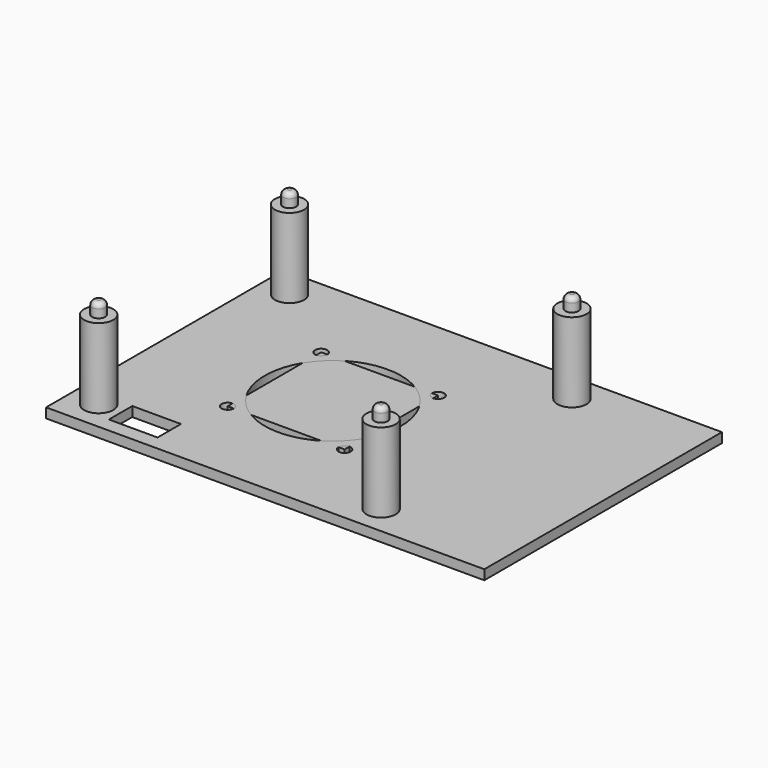
from build123d import *

# Parameters (mm, degrees)
BOX001_W          = 24
BOX001_H          = 24
BOX001_DEPTH      = 2
CYLINDER012_R     = 1.25
CYLINDER012_DEPTH = 2
CYLINDER013_R     = 1.25
CYLINDER013_DEPTH = 2
CYLINDER014_R     = 1.25
CYLINDER014_DEPTH = 2
CYLINDER015_R     = 1.25
CYLINDER015_DEPTH = 2
BOX002_W          = 10
BOX002_H          = 6
BOX002_DEPTH      = 2
CYLINDER016_R     = 14
CYLINDER016_DEPTH = 2
CYLINDER002_R     = 1
CYLINDER002_DEPTH = 5
CYLINDER003_R     = 3
CYLINDER003_DEPTH = 16.3
CYLINDER004_R     = 1
CYLINDER004_DEPTH = 5
CYLINDER005_R     = 3
CYLINDER005_DEPTH = 16.3
CYLINDER006_R     = 1
CYLINDER006_DEPTH = 5
CYLINDER007_R     = 3
CYLINDER007_DEPTH = 16.3
CYLINDER001_R     = 1
CYLINDER001_DEPTH = 5
CYLINDER_R        = 3
CYLINDER_DEPTH    = 16.3
CYLINDER008_R     = 1.35
CYLINDER008_DEPTH = 21
FILLET_R          = 1
CYLINDER009_R     = 1.35
CYLINDER009_DEPTH = 21
FILLET001_R       = 1
CYLINDER010_R     = 1.35
CYLINDER010_DEPTH = 21
FILLET002_R       = 1
CYLINDER011_R     = 1.35
CYLINDER011_DEPTH = 21
FILLET003_R       = 1
BOX_W             = 90
BOX_H             = 61
BOX_DEPTH         = 2


with BuildPart() as cube:
    # Box001 → Box001 (new body)
    with BuildSketch(Plane(origin=(25, 21, 0), x_dir=(1, 0, 0), z_dir=(0, 0, 1))):
        with Locations((12, 12)):
            Rectangle(BOX001_W, BOX001_H)
    extrude(amount=BOX001_DEPTH)


with BuildPart() as cylinder012:
    # Cylinder012 → Cylinder012 (new body)
    with BuildSketch(Plane(origin=(25, 21, 0), x_dir=(1, 0, 0), z_dir=(0, 0, 1))):
        Circle(CYLINDER012_R)
    extrude(amount=CYLINDER012_DEPTH)


with BuildPart() as cylinder013:
    # Cylinder013 → Cylinder013 (new body)
    with BuildSketch(Plane(origin=(25, 45, 0), x_dir=(1, 0, 0), z_dir=(0, 0, 1))):
        Circle(CYLINDER013_R)
    extrude(amount=CYLINDER013_DEPTH)


with BuildPart() as cylinder014:
    # Cylinder014 → Cylinder014 (new body)
    with BuildSketch(Plane(origin=(49, 45, 0), x_dir=(1, 0, 0), z_dir=(0, 0, 1))):
        Circle(CYLINDER014_R)
    extrude(amount=CYLINDER014_DEPTH)


with BuildPart() as cylinder015:
    # Cylinder015 → Cylinder015 (new body)
    with BuildSketch(Plane(origin=(49, 21, 0), x_dir=(1, 0, 0), z_dir=(0, 0, 1))):
        Circle(CYLINDER015_R)
    extrude(amount=CYLINDER015_DEPTH)


with BuildPart() as box002:
    # Box002 → Box002 (new body)
    with BuildSketch(Plane(origin=(13, 5.5, 0), x_dir=(1, 0, 0), z_dir=(0, 0, 1))):
        with Locations((5, 3)):
            Rectangle(BOX002_W, BOX002_H)
    extrude(amount=BOX002_DEPTH)


with BuildPart() as fanhole:
    # Cylinder016 → Cylinder016 (new body)
    with BuildSketch(Plane(origin=(37, 33, 0), x_dir=(1, 0, 0), z_dir=(0, 0, 1))):
        Circle(CYLINDER016_R)
    extrude(amount=CYLINDER016_DEPTH)


with BuildPart() as inside_cyl001:
    # Cylinder002 → Cylinder002 (new body)
    with BuildSketch(Plane(origin=(-8.5, 8.5, 0), x_dir=(1, 0, 0), z_dir=(0, 0, 1))):
        Circle(CYLINDER002_R)
    extrude(amount=CYLINDER002_DEPTH)


with BuildPart() as cut001:
    # Cylinder003 → Cylinder003 (new body)
    with BuildSketch(Plane(origin=(-8.5, 8.5, 0), x_dir=(1, 0, 0), z_dir=(0, 0, 1))):
        Circle(CYLINDER003_R)
    extrude(amount=CYLINDER003_DEPTH)

    # Cut001: cut Inside Cyl001
    add(inside_cyl001.part, mode=Mode.SUBTRACT)


with BuildPart() as cut001_1:
    # Cut001 placement: moved
    add(cut001.part.moved(Location((17, 49, 2))))


with BuildPart() as inside_cyl002:
    # Cylinder004 → Cylinder004 (new body)
    with BuildSketch(Plane(origin=(-8.5, 8.5, 0), x_dir=(1, 0, 0), z_dir=(0, 0, 1))):
        Circle(CYLINDER004_R)
    extrude(amount=CYLINDER004_DEPTH)


with BuildPart() as cut002:
    # Cylinder005 → Cylinder005 (new body)
    with BuildSketch(Plane(origin=(-8.5, 8.5, 0), x_dir=(1, 0, 0), z_dir=(0, 0, 1))):
        Circle(CYLINDER005_R)
    extrude(amount=CYLINDER005_DEPTH)

    # Cut002: cut Inside Cyl002
    add(inside_cyl002.part, mode=Mode.SUBTRACT)


with BuildPart() as cut002_1:
    # Cut002 placement: moved
    add(cut002.part.moved(Location((75, 0, 2))))


with BuildPart() as inside_cyl003:
    # Cylinder006 → Cylinder006 (new body)
    with BuildSketch(Plane(origin=(-8.5, 8.5, 0), x_dir=(1, 0, 0), z_dir=(0, 0, 1))):
        Circle(CYLINDER006_R)
    extrude(amount=CYLINDER006_DEPTH)


with BuildPart() as cut003:
    # Cylinder007 → Cylinder007 (new body)
    with BuildSketch(Plane(origin=(-8.5, 8.5, 0), x_dir=(1, 0, 0), z_dir=(0, 0, 1))):
        Circle(CYLINDER007_R)
    extrude(amount=CYLINDER007_DEPTH)

    # Cut003: cut Inside Cyl003
    add(inside_cyl003.part, mode=Mode.SUBTRACT)


with BuildPart() as cut003_1:
    # Cut003 placement: moved
    add(cut003.part.moved(Location((75, 49, 2))))


with BuildPart() as inside_cyl:
    # Cylinder001 → Cylinder001 (new body)
    with BuildSketch(Plane(origin=(-8.5, 8.5, 0), x_dir=(1, 0, 0), z_dir=(0, 0, 1))):
        Circle(CYLINDER001_R)
    extrude(amount=CYLINDER001_DEPTH)


with BuildPart() as cut:
    # Cylinder → Cylinder (new body)
    with BuildSketch(Plane(origin=(-8.5, 8.5, 0), x_dir=(1, 0, 0), z_dir=(0, 0, 1))):
        Circle(CYLINDER_R)
    extrude(amount=CYLINDER_DEPTH)

    # Cut: cut Inside Cyl
    add(inside_cyl.part, mode=Mode.SUBTRACT)


with BuildPart() as cut_1:
    # Cut placement: moved
    add(cut.part.moved(Location((17, 0, 2))))


with BuildPart() as fillet_body:
    # Cylinder008 → Cylinder008 (new body)
    with BuildSketch(Plane(origin=(8.5, 8.5, 0), x_dir=(1, 0, 0), z_dir=(0, 0, 1))):
        Circle(CYLINDER008_R)
    extrude(amount=CYLINDER008_DEPTH)

    # Fillet
    fillet_edges = [fillet_body.edges().sort_by_distance(p)[0] for p in [
        (7.15, 8.5, 21),
    ]]
    fillet(fillet_edges, radius=FILLET_R)


with BuildPart() as fillet001:
    # Cylinder009 → Cylinder009 (new body)
    with BuildSketch(Plane(origin=(8.5, 8.5, 0), x_dir=(1, 0, 0), z_dir=(0, 0, 1))):
        Circle(CYLINDER009_R)
    extrude(amount=CYLINDER009_DEPTH)

    # Fillet001
    fillet001_edges = [fillet001.edges().sort_by_distance(p)[0] for p in [
        (7.15, 8.5, 21),
    ]]
    fillet(fillet001_edges, radius=FILLET001_R)


with BuildPart() as fillet001_1:
    # Fillet001 placement: moved
    add(fillet001.part.moved(Location((0, 49, 0))))


with BuildPart() as fillet002:
    # Cylinder010 → Cylinder010 (new body)
    with BuildSketch(Plane(origin=(8.5, 8.5, 0), x_dir=(1, 0, 0), z_dir=(0, 0, 1))):
        Circle(CYLINDER010_R)
    extrude(amount=CYLINDER010_DEPTH)

    # Fillet002
    fillet002_edges = [fillet002.edges().sort_by_distance(p)[0] for p in [
        (7.15, 8.5, 21),
    ]]
    fillet(fillet002_edges, radius=FILLET002_R)


with BuildPart() as fillet002_1:
    # Fillet002 placement: moved
    add(fillet002.part.moved(Location((58, 0, 0))))


with BuildPart() as fillet003:
    # Cylinder011 → Cylinder011 (new body)
    with BuildSketch(Plane(origin=(8.5, 8.5, 0), x_dir=(1, 0, 0), z_dir=(0, 0, 1))):
        Circle(CYLINDER011_R)
    extrude(amount=CYLINDER011_DEPTH)

    # Fillet003
    fillet003_edges = [fillet003.edges().sort_by_distance(p)[0] for p in [
        (7.15, 8.5, 21),
    ]]
    fillet(fillet003_edges, radius=FILLET003_R)


with BuildPart() as fillet003_1:
    # Fillet003 placement: moved
    add(fillet003.part.moved(Location((58, 49, 0))))


with BuildPart() as rpi_base_top:
    # Box → Box (new body)
    with BuildSketch(Plane(origin=(2.5, 2.5, 0), x_dir=(1, 0, 0), z_dir=(0, 0, 1))):
        with Locations((45, 30.5)):
            Rectangle(BOX_W, BOX_H)
    extrude(amount=BOX_DEPTH)

    # Fusion: union Cut001, Cut002, Cut003, Cut, Fillet body, Fillet001, Fillet002, Fillet003
    add(cut001_1.part)
    add(cut002_1.part)
    add(cut003_1.part)
    add(cut_1.part)
    add(fillet_body.part)
    add(fillet001_1.part)
    add(fillet002_1.part)
    add(fillet003_1.part)

    # Cut004: cut FanHole
    add(fanhole.part, mode=Mode.SUBTRACT)

    # Cut005: cut Box002
    add(box002.part, mode=Mode.SUBTRACT)

    # Cut006: cut Cylinder015
    add(cylinder015.part, mode=Mode.SUBTRACT)

    # Cut007: cut Cylinder014
    add(cylinder014.part, mode=Mode.SUBTRACT)

    # Cut008: cut Cylinder013
    add(cylinder013.part, mode=Mode.SUBTRACT)

    # Cut009: cut Cylinder012
    add(cylinder012.part, mode=Mode.SUBTRACT)


solid = Compound([cube.part, rpi_base_top.part])
